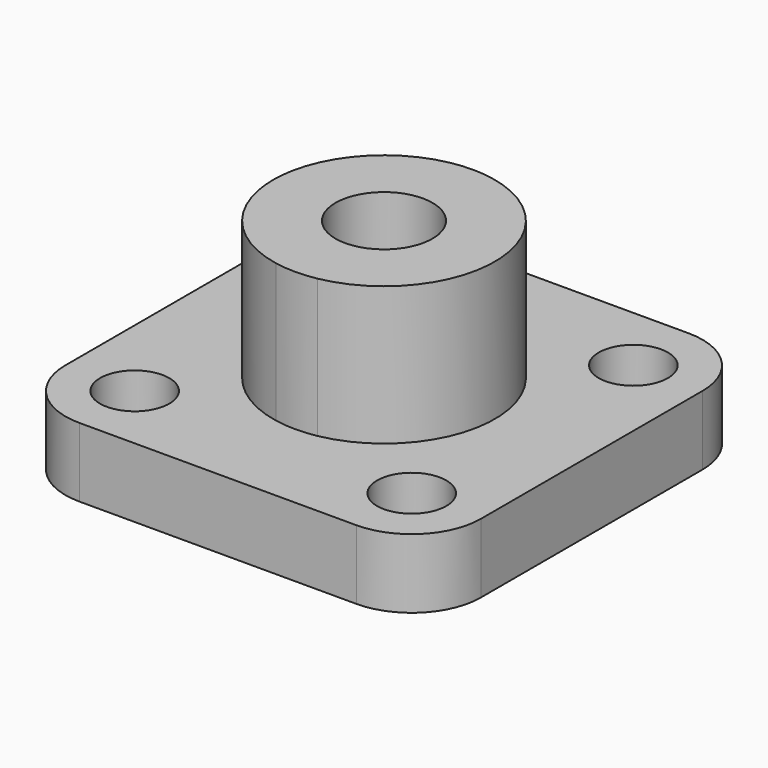
from build123d import *

# Parameters (mm, degrees)
F0_W     = 60
F0_H     = 60
F1_DEPTH = 10
F2_R     = 10
F4_DEPTH = 20
F6_D     = 14
F7_D     = 10


with BuildPart() as f1:
    # F0 (on Top) → F1 (new body)
    with BuildSketch(Plane.XY):
        Rectangle(F0_W, F0_H)
    extrude(amount=F1_DEPTH)

    # F2
    f2_edges = [f1.edges().sort_by_distance(p)[0] for p in [
        (-30, 30, 5),
        (-30, -30, 5),
        (30, -30, 5),
        (30, 30, 5),
    ]]
    fillet(f2_edges, radius=F2_R)

    # F3 (on face) → F4 (join)
    with BuildSketch(Plane.XY.offset(10)):
        with BuildLine():
            ThreePointArc((15.7162336455, -3), (15.928900438, -1.5066953362), (16, 0))
            ThreePointArc((16, 0), (15.928900438, 1.5066953362), (15.7162336455, 3))
            ThreePointArc((15.7162336455, 3), (11.313708499, 11.313708499), (3, 15.7162336455))
            ThreePointArc((3, 15.7162336455), (0, 16), (-3, 15.7162336455))
            ThreePointArc((-3, 15.7162336455), (-11.313708499, 11.313708499), (-15.7162336455, 3))
            ThreePointArc((-15.7162336455, 3), (-16, 0), (-15.7162336455, -3))
            ThreePointArc((-15.7162336455, -3), (-11.313708499, -11.313708499), (-3, -15.7162336455))
            ThreePointArc((-3, -15.7162336455), (0, -16), (3, -15.7162336455))
            ThreePointArc((3, -15.7162336455), (11.313708499, -11.313708499), (15.7162336455, -3))
        make_face()
    extrude(amount=F4_DEPTH)

    # F6 (through all)
    with Locations(Plane.XY.offset(30)):
        with Locations((0, 0)):
            Hole(F6_D / 2)

    # F7 (through all)
    with Locations(Plane.XY.offset(10)):
        with Locations((-20, 20), (-20, -20), (20, -20), (20, 20)):
            Hole(F7_D / 2)


solid = f1.part
